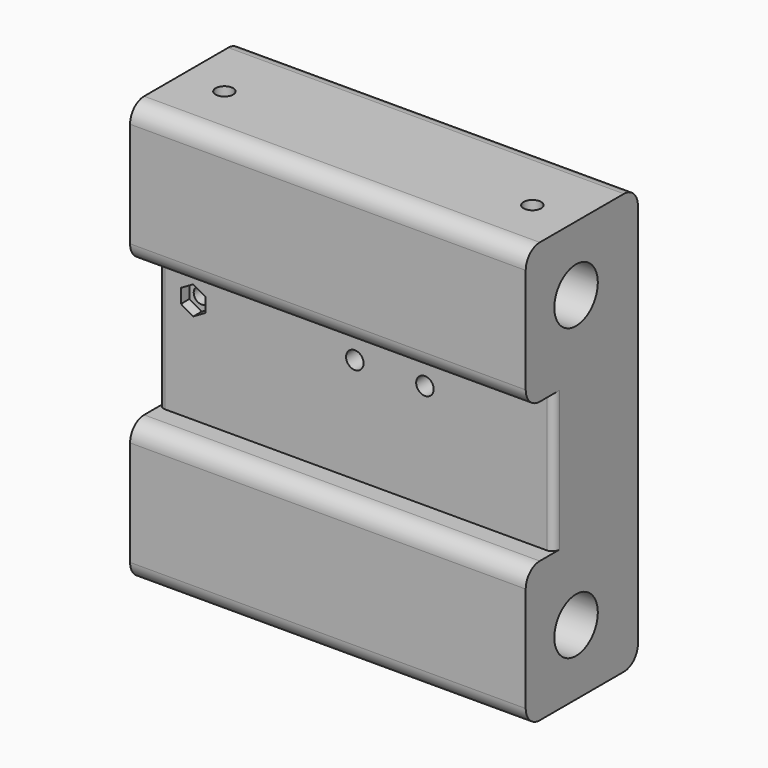
from build123d import *

# Parameters (mm, degrees)
F0_W      = 112.8332
F0_H      = 30
F1_DEPTH  = 120
F3_DEPTH  = 10
F6_DEPTH  = 39
F7_DEPTH  = 39
F8_R      = 7.5
F8_W      = 10
F8_H      = 40
F9_DEPTH  = 120
F11_DEPTH = 8
F12_R     = 2.25
F13_DEPTH = 50
F14_R     = 2.25
F15_DEPTH = 3
F16_R     = 5
F17_R     = 2
F14_R_2   = 2.5
F18_DEPTH = 10
F19_R     = 7.75
F19_R_2   = 7.5
F20_DEPTH = 25
F21_R     = 7.75
F21_R_2   = 7.5
F22_DEPTH = 25
F24_R     = 2.5
F23_R     = 2.5
F25_DEPTH = 13.1
F26_DEPTH = 25


with BuildPart() as f1:
    # F0 (on Top) → F1 (new body)
    with BuildSketch(Plane.XY):
        with Locations((2.3114552433, -2.9506393059)):
            Rectangle(F0_W, F0_H)
    extrude(amount=F1_DEPTH)

    # F2 (on face) → F3 (join)
    with BuildSketch(Plane(origin=(0, 12.0493606941, 0), x_dir=(-1, 0, 0), z_dir=(0, 1, 0))):
        Polygon((17.2719447567, 40.5), (-21.7280552433, 40.5), (-21.7280552433, 79.5), (17.2719447567, 79.5), (54.1051447567, 79.5), (54.1051447567, 120), (-58.7280552433, 120), (-58.7280552433, 0), (54.1051447567, 0), (54.1051447567, 40.5), align=None)
    extrude(amount=F3_DEPTH)

    # F5 (on face) → F6 (join)
    with BuildSketch(Plane(origin=(21.7280552433, 0, 0), x_dir=(0, -1, 0), z_dir=(-1, 0, 0))):
        Polygon((-22.0493606941, 40.5), (-17.0493606941, 40.5), (-20.0493606941, 44), (-22.0493606941, 44), align=None)
        Polygon((-22.0493606941, 79.5), (-22.0493606941, 76), (-20.0493606941, 76), (-17.0493606941, 79.5), align=None)
    extrude(amount=F6_DEPTH)

    # F4 (on face) → F7 (join)
    with BuildSketch(Plane.XY.offset(40.5)):
        Polygon((21.7280552433, 22.0493606941), (18.2280552433, 22.0493606941), (18.2280552433, 20.0493606941), (21.7280552433, 17.0493606941), align=None)
    extrude(amount=F7_DEPTH)

    # F8 (on face) → F9 (cut)
    with BuildSketch(Plane.YZ.offset(58.7280552433)):
        with Locations((0, 101.5)):
            Circle(F8_R)
        with Locations((0, 18.6668)):
            Circle(F8_R)
        with Locations((-12.9506393059, 60)):
            Rectangle(F8_W, F8_H)
    extrude(amount=-F9_DEPTH, mode=Mode.SUBTRACT)


with BuildPart() as f11:
    # F10 (on face) → F11 (new body)
    with BuildSketch(Plane(origin=(0, 12.0493606941, 0), x_dir=(-1, 0, 0), z_dir=(0, 1, 0))):
        with BuildLine():
            Line((17.1051447567, 64.9645727873), (44.1051447567, 64.9645727873))
            ThreePointArc((44.1051447567, 64.9645727873), (49.1051447567, 69.9645727873), (44.1051447567, 74.9645727873))
            Line((44.1051447567, 74.9645727873), (20.1051447567, 74.9645727873))
            ThreePointArc((20.1051447567, 74.9645727873), (17.9838244131, 74.0858931308), (17.1051447567, 71.9645727873))
            Line((17.1051447567, 71.9645727873), (17.1051447567, 64.9645727873))
        make_face()
    extrude(amount=F11_DEPTH)


with BuildPart() as f13_tool:
    # F12 (on face) → F13 (new body)
    with BuildSketch(Plane(origin=(0, 20.0493606941, 0), x_dir=(-1, 0, 0), z_dir=(0, 1, 0))):
        with Locations((44.1051447567, 69.9645727873)):
            Circle(F12_R)
    extrude(amount=-F13_DEPTH)


with BuildPart() as f1_1:
    add(f1.part)

    # F13: cut by f13_tool
    add(f13_tool.part, mode=Mode.SUBTRACT)

    # F14 (on face) → F15 (cut)
    with BuildSketch(Plane.XZ.offset(7.9506393059)):
        Polygon((-40.6051447567, 67.9438468451), (-40.6051447567, 71.9852987294), (-44.1051447567, 74.0060246716), (-47.6051447567, 71.9852987294), (-47.6051447567, 67.9438468451), (-44.1051447567, 65.923120903), align=None)
        with Locations((-44.1051447567, 69.9645727873)):
            Circle(F14_R, mode=Mode.SUBTRACT)
    extrude(amount=-F15_DEPTH, mode=Mode.SUBTRACT)

    # F16
    f16_edges = [f1_1.edges().sort_by_distance(p)[0] for p in [
        (2.311455, -17.950639, 40),
        (2.311455, -17.950639, 80),
        (2.311455, -17.950639, 120),
        (2.311455, 22.049361, 120),
        (2.311455, -17.950639, 0),
        (2.311455, 22.049361, 0),
    ]]
    fillet(f16_edges, radius=F16_R)

    # F17
    f17_edges = [f1_1.edges().sort_by_distance(p)[0] for p in [
        (-35.688545, 22.049361, 79.5),
        (-35.688545, 22.049361, 40.5),
        (-54.105145, 12.049361, 60),
        (-54.105145, -7.950639, 60),
        (58.728055, -7.950639, 60),
    ]]
    fillet(f17_edges, radius=F17_R)

    # F14 (on face) → F18 (cut)
    with BuildSketch(Plane.XZ.offset(7.9506393059)):
        with Locations((1.9898544997, 69.9645727873)):
            Circle(F14_R_2)
        with Locations((21.9898544997, 69.9645727873)):
            Circle(F14_R_2)
    extrude(amount=-F18_DEPTH, mode=Mode.SUBTRACT)

    # F19 (on face) → F20 (cut)
    with BuildSketch(Plane.YZ.offset(58.7280552433)):
        with Locations((0, 101.5)):
            Circle(F19_R)
        with Locations((0, 101.5)):
            Circle(F19_R_2, mode=Mode.SUBTRACT)
        with Locations((0, 18.6668)):
            Circle(F19_R)
        with Locations((0, 18.6668)):
            Circle(F19_R_2, mode=Mode.SUBTRACT)
    extrude(amount=-F20_DEPTH, mode=Mode.SUBTRACT)

    # F21 (on face) → F22 (cut)
    with BuildSketch(Plane(origin=(-54.1051447567, 0, 0), x_dir=(0, -1, 0), z_dir=(-1, 0, 0))):
        with Locations((0, 101.5)):
            Circle(F21_R)
        with Locations((0, 101.5)):
            Circle(F21_R_2, mode=Mode.SUBTRACT)
        with Locations((0, 18.6668)):
            Circle(F21_R)
        with Locations((0, 18.6668)):
            Circle(F21_R_2, mode=Mode.SUBTRACT)
    extrude(amount=-F22_DEPTH, mode=Mode.SUBTRACT)

    # F24 (on face) + F23 (on face) → F25 (cut)
    with BuildSketch(Plane.XY.offset(120)):
        with Locations((-41.6051447567, 0.0493606941)):
            Circle(F24_R)
        with Locations((46.2280552433, 0.0493606941)):
            Circle(F24_R)
    with BuildSketch(Plane(origin=(0, 0, 0), x_dir=(1, 0, 0), z_dir=(0, 0, -1))):
        with Locations((-41.6051447567, -0.0493606941)):
            Circle(F23_R)
        with Locations((46.2280552433, -0.0493606941)):
            Circle(F23_R)
    extrude(amount=-F25_DEPTH, dir=(0, 0, 1), mode=Mode.SUBTRACT)

    # F23 (on face) → F26 (cut)
    with BuildSketch(Plane(origin=(0, 0, 0), x_dir=(1, 0, 0), z_dir=(0, 0, -1))):
        with Locations((-41.6051447567, -0.0493606941)):
            Circle(F23_R)
        with Locations((46.2280552433, -0.0493606941)):
            Circle(F23_R)
    extrude(amount=-F26_DEPTH, mode=Mode.SUBTRACT)


with BuildPart() as f11_1:
    add(f11.part)

    # F13: cut by f13_tool
    add(f13_tool.part, mode=Mode.SUBTRACT)


solid = Compound([f1_1.part, f11_1.part])
